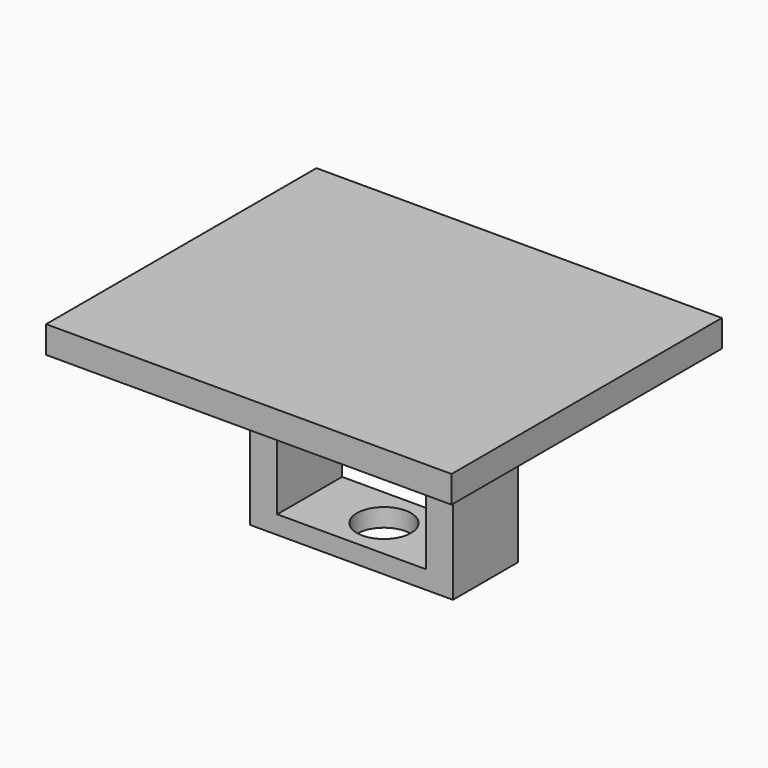
from build123d import *

# Parameters (mm, degrees)
F0_W          = 60
F0_H          = 4
F1_DEPTH      = 25
F1_DEPTH_BACK = 25
F2_W          = 30
F2_H          = 12
F3_DEPTH      = 25
F4_W          = 22
F4_H          = 22
F5_DEPTH      = 25
F6_R          = 4
F7_DEPTH      = 10


with BuildPart() as f1:
    # F0 (on Front) → F1 (new body, two sides)
    with BuildSketch(Plane.XZ) as f1_sk:
        Rectangle(F0_W, F0_H)
    extrude(amount=F1_DEPTH)
    extrude(f1_sk.sketch, amount=-F1_DEPTH_BACK)

    # F2 (on face) → F3 (join)
    with BuildSketch(Plane(origin=(0, 0, -2), x_dir=(1, 0, 0), z_dir=(0, 0, -1))):
        Rectangle(F2_W, F2_H)
    extrude(amount=F3_DEPTH)

    # F4 (on face) → F5 (cut)
    with BuildSketch(Plane(origin=(0, 6, 0), x_dir=(-1, 0, 0), z_dir=(0, 1, 0))):
        with Locations((0, -13.310707)):
            Rectangle(F4_W, F4_H)
    extrude(amount=-F5_DEPTH, mode=Mode.SUBTRACT)

    # F6 (on face) → F7 (cut)
    with BuildSketch(Plane(origin=(0, 0, -27), x_dir=(1, 0, 0), z_dir=(0, 0, -1))):
        Circle(F6_R)
    extrude(amount=-F7_DEPTH, mode=Mode.SUBTRACT)


solid = f1.part
